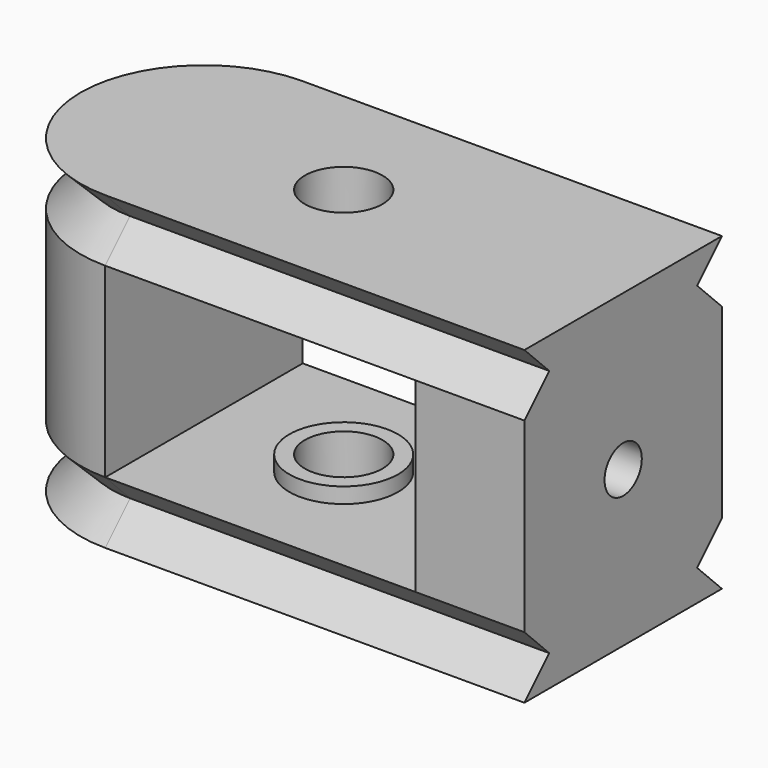
from build123d import *

# Parameters (mm, degrees)
CYLINDER_R           = 7.95
CYLINDER_DEPTH       = 12
PAD_DEPTH            = 27
BOX_W                = 27
BOX_H                = 15.9
BOX_DEPTH            = 12
SKETCH004_W          = 20
SKETCH004_H          = 20
SKETCH004_R          = 3.5
POCKET_DEPTH         = 6
SKETCH005_R          = 3.5
POCKET001_DEPTH      = 5
SKETCH006_R          = 2.5
POCKET002_DEPTH      = 10.001
POCKET002_DEPTH_BACK = 10.001
POCKET003_DEPTH      = 2
SKETCH008_R          = 1.5
POCKET004_DEPTH      = 7.001


with BuildPart() as obj1:
    # Cylinder → Cylinder (new body)
    with BuildSketch(Plane.XY.offset(-6)):
        Circle(CYLINDER_R)
    extrude(amount=CYLINDER_DEPTH)


with BuildPart() as idlerbody:
    # Sketch → Pad (new body)
    with BuildSketch(Plane.YZ):
        Polygon((0, 2), (-7.95, 2), (-5.95, 0), (-7.95, -2), (0, -2), (7.95, -2), (5.95, 0), (7.95, 2), align=None)
    extrude(amount=PAD_DEPTH)

    # Sketch002 (on DatumPlane) → AdditiveLoft section 0
    with BuildSketch(Plane.XY.offset(2)):
        with BuildLine():
            ThreePointArc((0, 7.95), (-7.95, 0), (0, -7.95))
            Line((0, 7.95), (0, -7.95))
        make_face()
    # Sketch001 → AdditiveLoft section 1
    with BuildSketch(Plane.XY):
        with BuildLine():
            ThreePointArc((0, 5.95), (-5.95, 0), (0, -5.95))
            Line((0, 5.95), (0, -5.95))
        make_face()
    # Sketch003 (on DatumPlane) → AdditiveLoft section 2
    with BuildSketch(Plane.XY.offset(-2)):
        with BuildLine():
            ThreePointArc((0, 7.95), (-7.95, 0), (0, -7.95))
            Line((0, 7.95), (0, -7.95))
        make_face()
    loft(ruled=True)


with BuildPart() as idlerbody_1:
    # Body placement: moved
    add(idlerbody.part.moved(Location((0, 0, -8))))


with BuildPart() as idlerbody_mirror:
    # Part__Mirroring: instance of IdlerBody
    add(idlerbody_1.part.mirror(Plane(origin=(0, 0, 0), x_dir=(0, 1, 0), z_dir=(0, 0, 1))))


with BuildPart() as finalcutsbody_refined:
    # Box → Box (new body)
    with BuildSketch(Plane(origin=(0, -7.95, -6), x_dir=(1, 0, 0), z_dir=(0, 0, 1))):
        with Locations((13.5, 7.95)):
            Rectangle(BOX_W, BOX_H)
    extrude(amount=BOX_DEPTH)

    # Fusion: union obj1, IdlerBody_Mirror, IdlerBody
    add(obj1.part)
    add(idlerbody_mirror.part)
    add(idlerbody_1.part)

    # Sketch004 → Pocket (cut, symmetric)
    with BuildSketch(Plane.XY):
        with Locations((10, 0)):
            Rectangle(SKETCH004_W, SKETCH004_H)
        with Locations((9, 0)):
            Circle(SKETCH004_R, mode=Mode.SUBTRACT)
    extrude(amount=POCKET_DEPTH, both=True, mode=Mode.SUBTRACT)

    # Sketch005 → Pocket001 (cut, symmetric)
    with BuildSketch(Plane.XY):
        with Locations((9, 0)):
            Circle(SKETCH005_R)
    extrude(amount=POCKET001_DEPTH, both=True, mode=Mode.SUBTRACT)

    # Sketch006 → Pocket002 (cut, two sides)
    with BuildSketch(Plane.XY) as pocket002_sk:
        with Locations((9, 0)):
            Circle(SKETCH006_R)
    extrude(amount=-POCKET002_DEPTH, mode=Mode.SUBTRACT)
    extrude(pocket002_sk.sketch, amount=POCKET002_DEPTH_BACK, mode=Mode.SUBTRACT)

    # Sketch007 (on DatumPlane) → Pocket003 (cut)
    with BuildSketch(Plane.YZ.offset(20)):
        Polygon((2.8, -1.616581), (2.8, 1.616581), (0, 3.233162), (-2.8, 1.616581), (-2.8, -1.616581), (0, -3.233162), align=None)
    extrude(amount=POCKET003_DEPTH, mode=Mode.SUBTRACT)

    # Sketch008 (on DatumPlane) → Pocket004 (cut, through all)
    with BuildSketch(Plane.YZ.offset(20)):
        Circle(SKETCH008_R)
    extrude(amount=POCKET004_DEPTH, mode=Mode.SUBTRACT)


solid = finalcutsbody_refined.part
